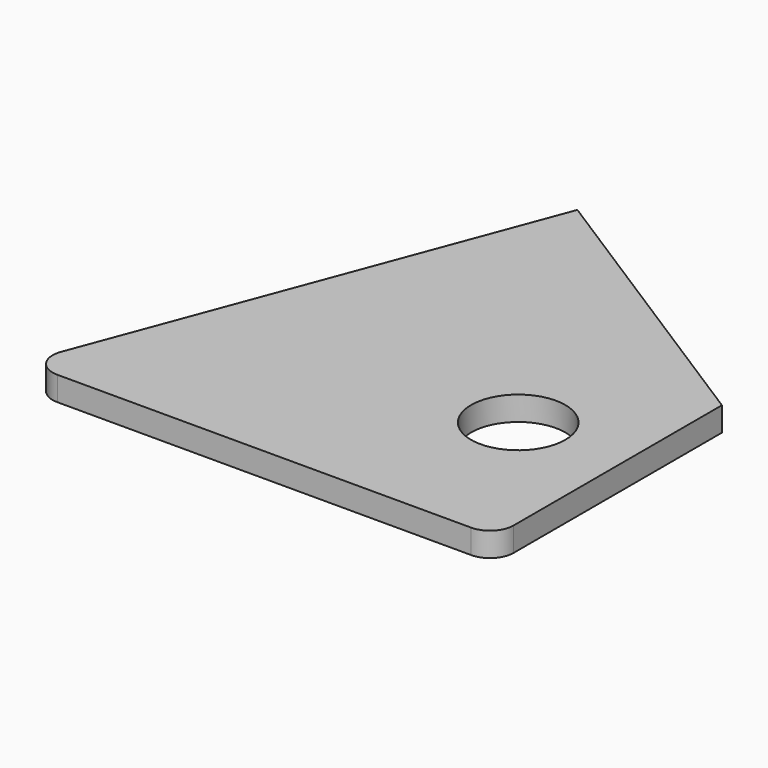
from build123d import *

# Parameters (mm, degrees)
F1_DEPTH = 5.207
F2_R     = 10.16
F3_DEPTH = 5.207
F4_R     = 5.08


with BuildPart() as f1:
    # F0 (on Top) → F1 (new body)
    with BuildSketch(Plane.XY):
        Polygon((-44.776442, -50.8), (56.823558, -50.8), (56.823558, 10.39734), (-6.647165, 50.8), align=None)
    extrude(amount=F1_DEPTH)

    # F2 (on face) → F3 (cut, through all)
    with BuildSketch(Plane.XY.offset(5.207)):
        with Locations((33.963558, -15.907511)):
            Circle(F2_R)
    extrude(amount=-F3_DEPTH, mode=Mode.SUBTRACT)

    # F4
    f4_edges = [f1.edges().sort_by_distance(p)[0] for p in [
        (56.823558, -50.8, 2.6035),
        (-44.776442, -50.8, 2.6035),
    ]]
    fillet(f4_edges, radius=F4_R)


solid = f1.part
